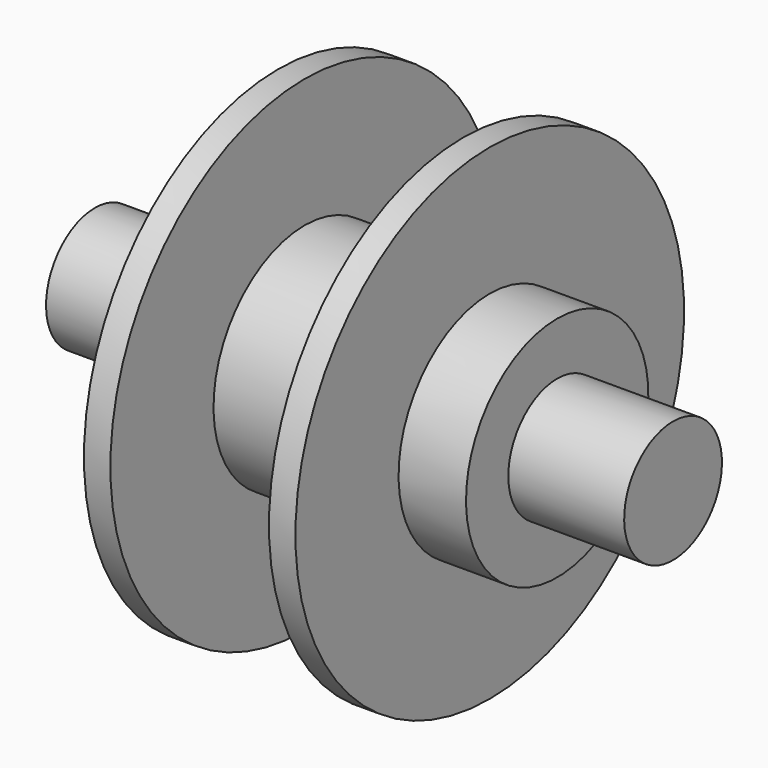
from build123d import *


with BuildPart() as f1:
    # F0 (on Front) → F1 (revolve)
    with BuildSketch(Plane.XZ):
        Polygon((-42.7736, 0), (0, 0), (0, 16.8656), (-11.7348, 16.8656), (-11.7348, 35.941), (-15.6464, 35.941), (-15.6464, 16.8656), (-25.6286, 16.8656), (-25.6286, 9.0424), (-42.7736, 9.0424), align=None)
        Polygon((0, 16.8656), (0, 0), (42.7736, 0), (42.7736, 9.0424), (25.6286, 9.0424), (25.6286, 16.8656), (15.6464, 16.8656), (15.6464, 35.941), (11.7348, 35.941), (11.7348, 16.8656), align=None)
    revolve(axis=Axis((-21.3868, 0, 0), (-1, 0, 0)))


solid = f1.part
